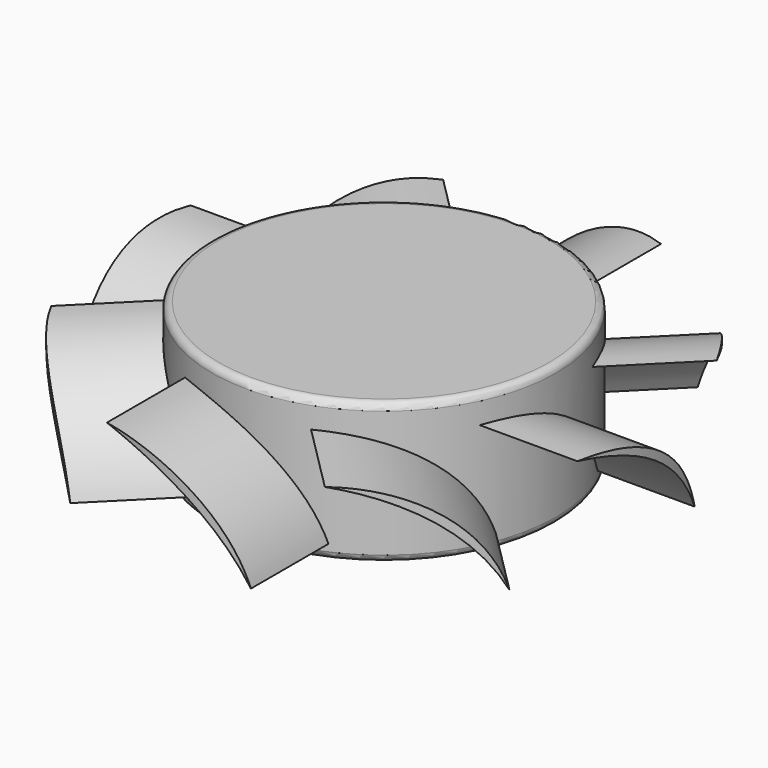
from build123d import *

# Parameters (mm, degrees)
SKETCH041_R           = 12.25
PAD012_DEPTH          = 10
FILLET013_R           = 0.5
PAD013_DEPTH          = 7.5
SKETCH043_R           = 32.89
SKETCH043_R_2         = 18.75
POCKET011_DEPTH       = 94.210561
POLARPATTERN001_COUNT = 8


with BuildPart() as part:
    # Sketch041 → Pad012 (new body)
    with BuildSketch(Plane.XY):
        Circle(SKETCH041_R)
    extrude(amount=PAD012_DEPTH)

    # Fillet013
    fillet013_edges = [part.edges().sort_by_distance(p)[0] for p in [
        (-12.25, 0, 10),
        (-12.25, 0, 0),
    ]]
    fillet(fillet013_edges, radius=FILLET013_R)

    # Sketch042 (on DatumPlane) → Pad013 (join, symmetric)
    with BuildSketch(Plane(origin=(0, 13, -2), x_dir=(1, 0, 0), z_dir=(0, -1, 0))):
        with BuildLine():
            ThreePointArc((5.3, 10), (-1.072659, 8.299055), (-5, 3))
            ThreePointArc((5.3, 10), (-0.742753, 7.813623), (-5, 3))
        make_face()
    pad013 = extrude(amount=PAD013_DEPTH, both=True)

    # Sketch043 (on Face7 of Pad013) → Pocket011 (cut, through all)
    with BuildSketch(Plane.XY.offset(10)):
        Circle(SKETCH043_R)
        Circle(SKETCH043_R_2, mode=Mode.SUBTRACT)
    pocket011 = extrude(amount=-POCKET011_DEPTH, mode=Mode.SUBTRACT)

    # PolarPattern001: Pad013, Pocket011 ×8 about axis
    polarpattern001_axis = Axis((0, 0, 0), (0, 0, 1))
    for i in range(1, POLARPATTERN001_COUNT):
        add(pad013.rotate(polarpattern001_axis, i * 360 / POLARPATTERN001_COUNT))
        add(pocket011.rotate(polarpattern001_axis, i * 360 / POLARPATTERN001_COUNT), mode=Mode.SUBTRACT)


solid = part.part
